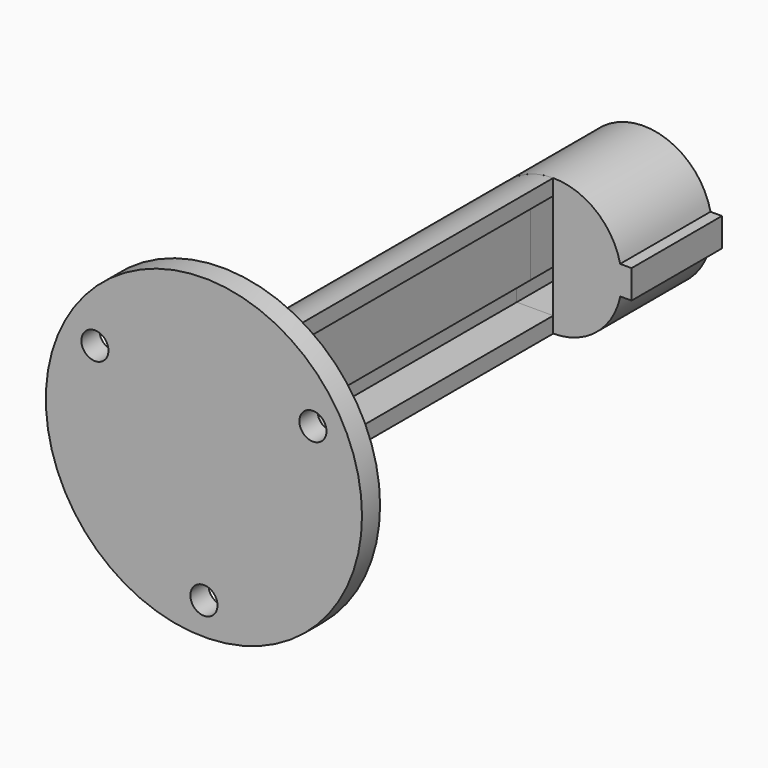
from build123d import *

# Parameters (mm, degrees)
SKETCH003_R        = 21
PAD002_DEPTH       = 3
SKETCH004_R        = 1.8
POCKET001_DEPTH    = 121.946367
POLARPATTERN_COUNT = 3
PAD_DEPTH          = 15
POCKET_DEPTH       = 12
PAD006_DEPTH       = 55
POCKET002_DEPTH    = 6.101


with BuildPart() as base:
    # Sketch003 (on Face1 of CopyPad001) → Pad002 (new body)
    with BuildSketch(Plane.XZ.offset(95)):
        Circle(SKETCH003_R)
    extrude(amount=PAD002_DEPTH)

    # Sketch004 (on Face3 of Pad002) → Pocket001 (cut, through all)
    with BuildSketch(Plane(origin=(0, -98, -1e-06), x_dir=(1, 0, 0), z_dir=(0, -1, 0))):
        with Locations((0, -16.72)):
            Circle(SKETCH004_R)
    pocket001 = extrude(amount=-POCKET001_DEPTH, mode=Mode.SUBTRACT)

    # PolarPattern: Pocket001 ×3 about axis
    polarpattern_axis = Axis((0, -98, -1e-06), (0, -1, 0))
    for i in range(1, POLARPATTERN_COUNT):
        add(pocket001.rotate(polarpattern_axis, i * 360 / POLARPATTERN_COUNT), mode=Mode.SUBTRACT)


with BuildPart() as base_1:
    # Body003 placement: moved
    add(base.part.moved(Location((0, 25, 0))))


with BuildPart() as magnetometer:
    # Sketch → Pad (new body)
    with BuildSketch(Plane.XZ):
        with BuildLine():
            ThreePointArc((8.889624, 1.945402), (-9.099882, -0.046426), (8.90901, -1.854598))
            Line((10.40901, -1.854598), (8.90901, -1.854598))
            Line((10.40901, 1.945402), (10.40901, -1.854598))
            Line((8.889624, 1.945402), (10.40901, 1.945402))
        make_face()
    extrude(amount=PAD_DEPTH)

    # Sketch001 (on Face6 of Pad) → Pocket (cut)
    with BuildSketch(Plane.XZ.offset(15)):
        Polygon((0, 7), (0, -7), (-4.85, -7), (-4.85, -3.81), (-3, -3.81), (-3, 7), align=None)
    extrude(amount=-POCKET_DEPTH, mode=Mode.SUBTRACT)


with BuildPart() as obj1:
    # Sketch010 → Pad006 (new body)
    with BuildSketch(Plane.XZ.offset(15)):
        with BuildLine():
            Line((0, 7), (-3, 7))
            Line((-3, 7), (-3, -3.81))
            Line((-3, -3.81), (-4.85, -3.81))
            Line((-4.85, -3.81), (-4.85, -7))
            Line((-4.85, -7), (0, -7))
            Line((0, -7), (0, -9.1))
            ThreePointArc((0, 9.1), (-9.1, 0), (0, -9.1))
            Line((0, 7), (0, 9.1))
        make_face()
    extrude(amount=PAD006_DEPTH)

    # Sketch013 (on Face2 of Pad006) → Pocket002 (cut, through all)
    with BuildSketch(Plane(origin=(-3, -15, 0), x_dir=(0, 0, 1), z_dir=(1, 0, 0))):
        with BuildLine():
            ThreePointArc((-2.5, 51), (0, 48.5), (2.5, 51))
            Line((2.5, 51), (2.5, 55))
            Line((-2.5, 55), (2.5, 55))
            Line((-2.5, 51), (-2.5, 55))
        make_face()
    extrude(amount=-POCKET002_DEPTH, mode=Mode.SUBTRACT)


solid = Compound([base_1.part, magnetometer.part, obj1.part])
